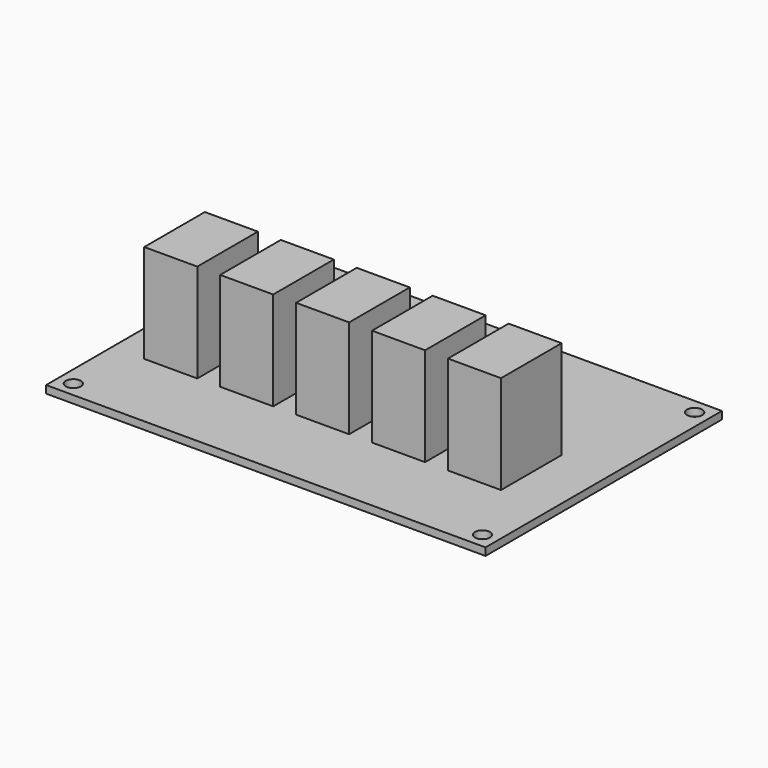
from build123d import *

# Parameters (mm, degrees)
F0_W     = 58
F0_H     = 39
F1_DEPTH = 14
F2_W     = 58
F2_H     = 39
F2_W_2   = 7
F2_H_2   = 10
F3_DEPTH = 13
F4_R     = 1
F5_DEPTH = 25


with BuildPart() as f1:
    # F0 (on Top) → F1 (new body)
    with BuildSketch(Plane.XY):
        Rectangle(F0_W, F0_H)
    extrude(amount=F1_DEPTH)

    # F2 (on face) → F3 (cut)
    with BuildSketch(Plane.XY.offset(14)):
        Rectangle(F2_W, F2_H)
        with Locations((-21.244489, -3.62447)):
            Rectangle(F2_W_2, F2_H_2, mode=Mode.SUBTRACT)
        with Locations((-11.244526, -3.597112)):
            Rectangle(F2_W_2, F2_H_2, mode=Mode.SUBTRACT)
        with Locations((-1.244564, -3.569755)):
            Rectangle(F2_W_2, F2_H_2, mode=Mode.SUBTRACT)
        with Locations((8.755399, -3.542397)):
            Rectangle(F2_W_2, F2_H_2, mode=Mode.SUBTRACT)
        with Locations((18.755362, -3.515039)):
            Rectangle(F2_W_2, F2_H_2, mode=Mode.SUBTRACT)
    extrude(amount=-F3_DEPTH, mode=Mode.SUBTRACT)

    # F4 (on face) → F5 (cut)
    with BuildSketch(Plane.XY.offset(1)):
        with Locations((-27, 17.5)):
            Circle(F4_R)
        with Locations((-27, -17.5)):
            Circle(F4_R)
        with Locations((27, -17.5)):
            Circle(F4_R)
        with Locations((27, 17.5)):
            Circle(F4_R)
    extrude(amount=-F5_DEPTH, mode=Mode.SUBTRACT)


solid = f1.part
